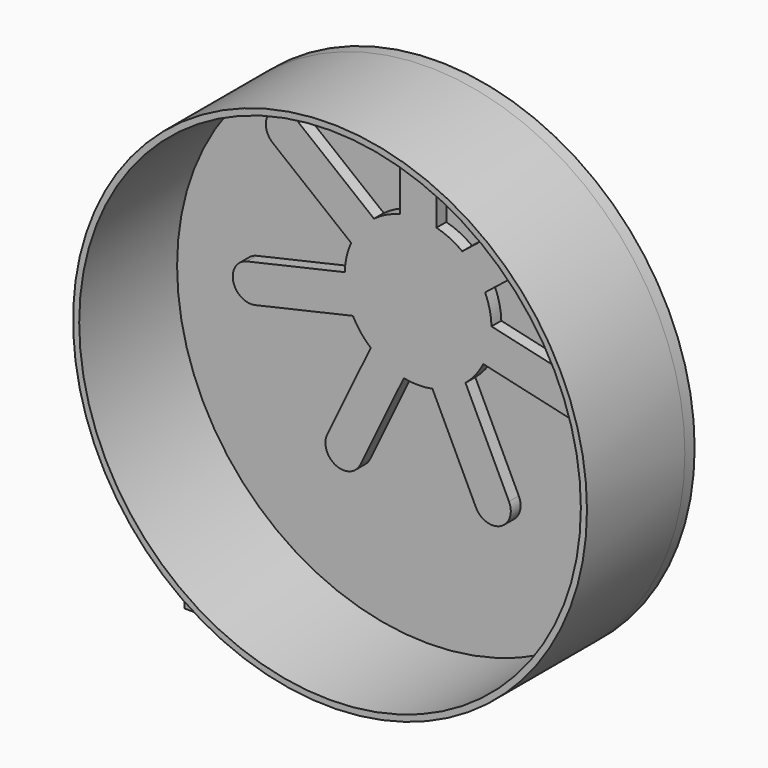
from build123d import *

# Parameters (mm, degrees)
F2_DEPTH = 254
F3_DEPTH = 25.4
F4_R     = 533.4
F4_R_2   = 19.05
F5_DEPTH = 25.4
F7_DEPTH = 12.7


with BuildPart() as f2:
    # F0 (on Front) → F2 (new body)
    with BuildSketch(Plane.XZ):
        with BuildLine():
            ThreePointArc((-533.4, 0), (0, -533.4), (533.4, 0))
            ThreePointArc((533.4, 0), (0, 533.4), (-533.4, 0))
        make_face()
        with BuildLine():
            ThreePointArc((-520.7, 0), (0, 520.7), (520.7, 0))
            ThreePointArc((520.7, 0), (0, -520.7), (-520.7, 0))
        make_face(mode=Mode.SUBTRACT)
    extrude(amount=F2_DEPTH)


with BuildPart() as f3:
    # F1 (on Front) → F3 (new body)
    with BuildSketch(Plane.XZ):
        with BuildLine():
            Line((-301.774237, 306.225194), (-139.122535, 176.514791))
            ThreePointArc((-139.122535, 176.514791), (-148.579014, 148.21219), (-152.339059, 118.609416))
            Line((-152.339059, 118.609416), (-355.162413, 72.316309))
            ThreePointArc((-355.162413, 72.316309), (-383.829119, 26.693508), (-338.206318, -1.973198))
            Line((-338.206318, -1.973198), (-135.382964, 44.319909))
            ThreePointArc((-135.382964, 44.319909), (-119.151118, 19.280154), (-98.351087, -2.116595))
            Line((-98.351087, -2.116595), (-188.615971, -189.553559))
            ThreePointArc((-188.615971, -189.553559), (-170.820028, -240.411443), (-119.962144, -222.6155))
            Line((-119.962144, -222.6155), (-29.697259, -35.178536))
            ThreePointArc((-29.697259, -35.178536), (0, -38.1), (29.697259, -35.178536))
            Line((29.697259, -35.178536), (119.962144, -222.6155))
            ThreePointArc((119.962144, -222.6155), (170.820028, -240.411443), (188.615971, -189.553559))
            Line((188.615971, -189.553559), (98.351087, -2.116595))
            ThreePointArc((98.351087, -2.116595), (119.151118, 19.280154), (135.382964, 44.319909))
            Line((135.382964, 44.319909), (338.206318, -1.973198))
            ThreePointArc((338.206318, -1.973198), (383.829119, 26.693508), (355.162413, 72.316309))
            Line((355.162413, 72.316309), (152.339059, 118.609416))
            ThreePointArc((152.339059, 118.609416), (148.579014, 148.21219), (139.122535, 176.514791))
            Line((139.122535, 176.514791), (301.774237, 306.225194))
            ThreePointArc((301.774237, 306.225194), (307.807055, 359.767935), (254.264314, 365.800753))
            Line((254.264314, 365.800753), (91.612612, 236.09035))
            ThreePointArc((91.612612, 236.09035), (66.123882, 251.607655), (38.1, 261.860665))
            Line((38.1, 261.860665), (38.1, 469.9))
            ThreePointArc((38.1, 469.9), (0, 508), (-38.1, 469.9))
            Line((-38.1, 469.9), (-38.1, 261.860665))
            ThreePointArc((-38.1, 261.860665), (-66.123882, 251.607655), (-91.612612, 236.09035))
            Line((-91.612612, 236.09035), (-254.264314, 365.800753))
            ThreePointArc((-254.264314, 365.800753), (-307.807055, 359.767935), (-301.774237, 306.225194))
        make_face()
    extrude(amount=F3_DEPTH)


with BuildPart() as f5:
    # F4 (on Front) → F5 (new body)
    with BuildSketch(Plane.XZ):
        Circle(F4_R)
        with Locations((0, 114.3)):
            Circle(F4_R_2, mode=Mode.SUBTRACT)
    extrude(amount=-F5_DEPTH)


with BuildPart() as f7:
    # F6 (on Front) → F7 (new body)
    with BuildSketch(Plane.XZ):
        with BuildLine():
            ThreePointArc((-383.570089, -447.598445), (-367.695089, -431.723445), (-351.820089, -447.598445))
            Line((-351.820089, -447.598445), (-351.820089, -466.648445))
            ThreePointArc((-351.820089, -466.648445), (-355.822294, -483.646987), (-366.98809, -497.074313))
            Line((-366.98809, -497.074313), (-391.214088, -515.333466))
            ThreePointArc((-391.214088, -515.333466), (-394.93602, -519.809241), (-396.270089, -525.475422))
            Line((-396.270089, -525.475422), (-396.270089, -539.76979))
            ThreePointArc((-396.270089, -539.76979), (-397.971566, -546.11979), (-402.620089, -550.768313))
            Line((-402.620089, -550.768313), (-435.053953, -569.494013))
            ThreePointArc((-435.053953, -569.494013), (-444.242947, -573.300219), (-454.103953, -574.598445))
            Line((-454.103953, -574.598445), (-494.695089, -574.598445))
            Line((-494.695089, -574.598445), (-494.695089, -612.698445))
            Line((-494.695089, -612.698445), (-240.695089, -612.698445))
            Line((-240.695089, -612.698445), (-240.695089, -574.598445))
            Line((-240.695089, -574.598445), (-281.286224, -574.598445))
            ThreePointArc((-281.286224, -574.598445), (-291.14723, -573.300219), (-300.336224, -569.494013))
            Line((-300.336224, -569.494013), (-332.770089, -550.768313))
            ThreePointArc((-332.770089, -550.768313), (-337.418611, -546.11979), (-339.120089, -539.76979))
            Line((-339.120089, -539.76979), (-339.120089, -447.598445))
            ThreePointArc((-339.120089, -447.598445), (-367.695089, -419.023445), (-396.270089, -447.598445))
            Line((-396.270089, -447.598445), (-396.270089, -466.648445))
            ThreePointArc((-396.270089, -466.648445), (-389.920089, -472.998445), (-383.570089, -466.648445))
            Line((-383.570089, -466.648445), (-383.570089, -447.598445))
        make_face()
    extrude(amount=F7_DEPTH)


solid = Compound([f2.part, f3.part, f5.part, f7.part])
